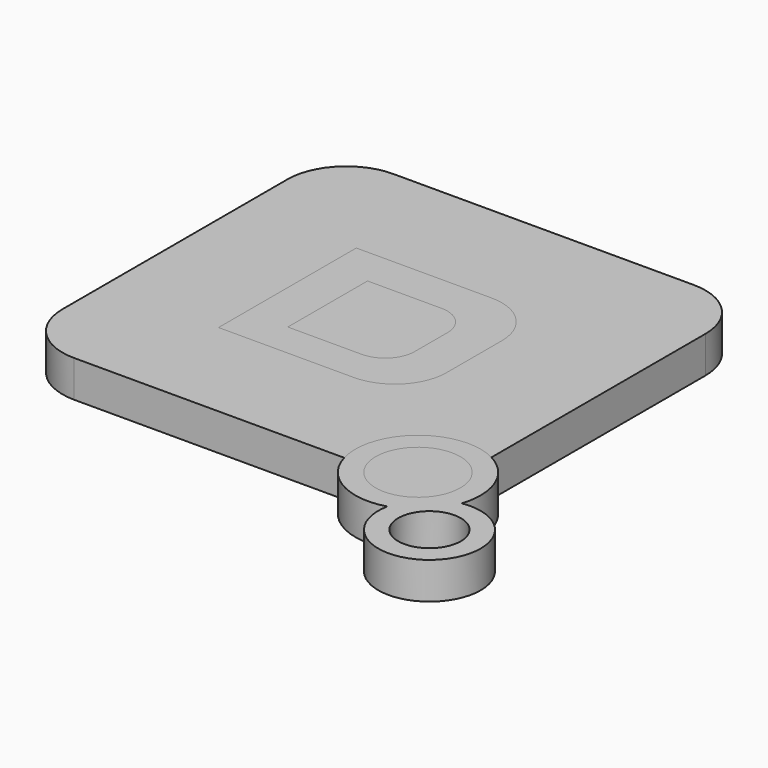
from build123d import *

# Parameters (mm, degrees)
F1_DEPTH = 5
F0_R     = 5.760850323
F0_R_2   = 4.2613533731
F2_DEPTH = 5


with BuildPart() as f1:
    # F0 (on Top) → F1 (new body)
    with BuildSketch(Plane.XY):
        with BuildLine():
            Line((20.4439530224, 27.1300673485), (-20.4439530224, 27.1300673485))
            ThreePointArc((-20.4439530224, 27.1300673485), (-26.1008072719, 24.786921598), (-28.4439530224, 19.1300673485))
            Line((-28.4439530224, 19.1300673485), (-28.4439530224, -19.1300673485))
            ThreePointArc((-28.4439530224, -19.1300673485), (-26.1008072719, -24.786921598), (-20.4439530224, -27.1300673485))
            Line((-20.4439530224, -27.1300673485), (16.2882330233, -27.1300673485))
            ThreePointArc((16.2882330233, -27.1300673485), (19.1298049483, -18.2112054104), (28.4439530224, -17.2799294426))
            Line((28.4439530224, -17.2799294426), (28.4439530224, 19.1300673485))
            ThreePointArc((28.4439530224, 19.1300673485), (26.1008072719, 24.786921598), (20.4439530224, 27.1300673485))
        make_face()
        with BuildLine():
            Line((-12.8614585847, -12.0656630024), (-12.8614585847, 11.3658718765))
            Line((-12.8614585847, 11.3658718765), (5.5432582572, 11.3658718765))
            ThreePointArc((5.5432582572, 11.3658718765), (10.4930057255, 9.3156193448), (12.5432582572, 4.3658718765))
            Line((12.5432582572, 4.3658718765), (12.5432582572, -5.0656630024))
            ThreePointArc((12.5432582572, -5.0656630024), (10.4930057255, -10.0154104707), (5.5432582572, -12.0656630024))
            Line((5.5432582572, -12.0656630024), (-12.8614585847, -12.0656630024))
        make_face(mode=Mode.SUBTRACT)
    extrude(amount=F1_DEPTH)


with BuildPart() as f1b:
    # F0 (on Top) → F1, piece 2 (new body)
    with BuildSketch(Plane.XY):
        with BuildLine():
            Line((2.8703605793, 6.1862696894), (-7.1885595098, 6.1862696894))
            Line((-7.1885595098, 6.1862696894), (-7.1885595098, -7.379356306))
            Line((-7.1885595098, -7.379356306), (2.8703605793, -7.379356306))
            ThreePointArc((2.8703605793, -7.379356306), (5.6987877041, -6.2077834308), (6.8703605793, -3.379356306))
            Line((6.8703605793, -3.379356306), (6.8703605793, 2.1862696894))
            ThreePointArc((6.8703605793, 2.1862696894), (5.6987877041, 5.0146968141), (2.8703605793, 6.1862696894))
        make_face()
    extrude(amount=F1_DEPTH)


with BuildPart() as f1c:
    # F0 (on Top) → F1, piece 3 (new body)
    with BuildSketch(Plane.XY):
        with Locations((24.4954992086, -24.8328261077)):
            Circle(F0_R)
    extrude(amount=F1_DEPTH)


with BuildPart() as f1d:
    # F0 (on Top) → F1, piece 4 (new body)
    with BuildSketch(Plane.XY):
        with Locations((33.6965397, -34.3877524137)):
            Circle(F0_R_2)
    extrude(amount=F1_DEPTH)


with BuildPart() as f2:
    # F0 (on Top) → F2 (new body)
    with BuildSketch(Plane.XY):
        with BuildLine():
            Line((5.5432582572, 11.3658718765), (-12.8614585847, 11.3658718765))
            Line((-12.8614585847, 11.3658718765), (-12.8614585847, -12.0656630024))
            Line((-12.8614585847, -12.0656630024), (5.5432582572, -12.0656630024))
            ThreePointArc((5.5432582572, -12.0656630024), (10.4930057255, -10.0154104707), (12.5432582572, -5.0656630024))
            Line((12.5432582572, -5.0656630024), (12.5432582572, 4.3658718765))
            ThreePointArc((12.5432582572, 4.3658718765), (10.4930057255, 9.3156193448), (5.5432582572, 11.3658718765))
        make_face()
        with BuildLine():
            Line((-7.1885595098, -7.379356306), (-7.1885595098, 6.1862696894))
            Line((-7.1885595098, 6.1862696894), (2.8703605793, 6.1862696894))
            ThreePointArc((2.8703605793, 6.1862696894), (5.6987877041, 5.0146968141), (6.8703605793, 2.1862696894))
            Line((6.8703605793, 2.1862696894), (6.8703605793, -3.379356306))
            ThreePointArc((6.8703605793, -3.379356306), (5.6987877041, -6.2077834308), (2.8703605793, -7.379356306))
            Line((2.8703605793, -7.379356306), (-7.1885595098, -7.379356306))
        make_face(mode=Mode.SUBTRACT)
    extrude(amount=F2_DEPTH)


with BuildPart() as f2b:
    # F0 (on Top) → F2, piece 2 (new body)
    with BuildSketch(Plane.XY):
        with BuildLine():
            ThreePointArc((32.5858523238, -27.5128861863), (32.3955985116, -21.6351759462), (28.4439530224, -17.2799294426))
            ThreePointArc((28.4439530224, -17.2799294426), (19.1298049483, -18.2112054104), (16.2882330233, -27.1300673485))
            ThreePointArc((16.2882330233, -27.1300673485), (20.3508359578, -32.2798592144), (26.8684643801, -33.0185192274))
            ThreePointArc((26.8684643801, -33.0185192274), (38.5270662844, -39.4040682941), (32.5858523238, -27.5128861863))
        make_face()
        with Locations((33.6965397, -34.3877524137)):
            Circle(F0_R_2, mode=Mode.SUBTRACT)
        with Locations((24.4954992086, -24.8328261077)):
            Circle(F0_R, mode=Mode.SUBTRACT)
    extrude(amount=F2_DEPTH)


solid = Compound([f1.part, f1b.part, f1c.part, f2.part, f2b.part])
